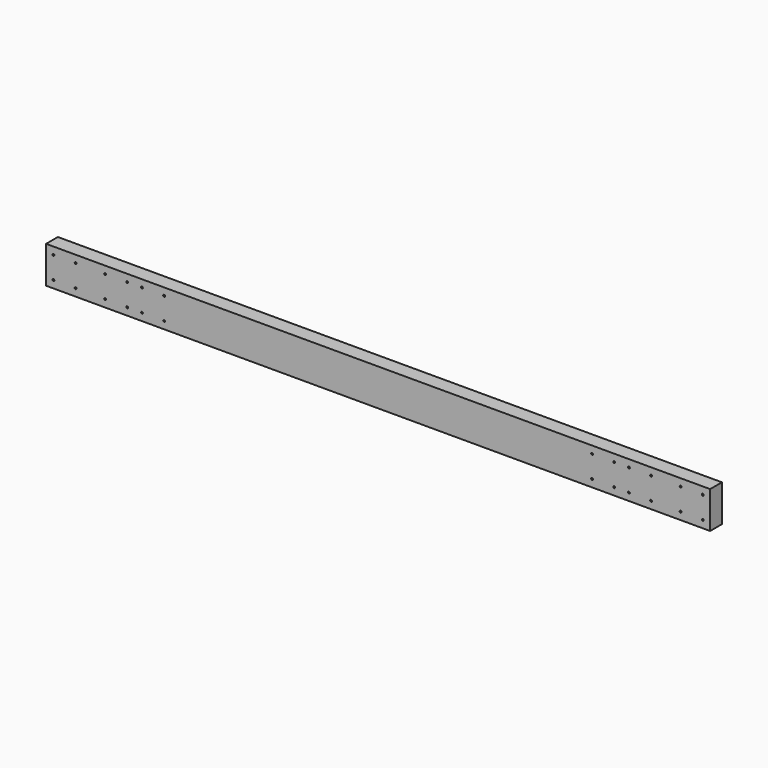
from build123d import *

# Parameters (mm, degrees)
F0_W     = 1800
F0_H     = 100
F1_DEPTH = 20
F3_D     = 5


with BuildPart() as f1:
    # F0 (on Front) → F1 (new body, symmetric)
    with BuildSketch(Plane.XZ):
        Rectangle(F0_W, F0_H)
    extrude(amount=F1_DEPTH, both=True)

    # F3 (through all)
    with Locations(Plane.XZ.offset(20)):
        with Locations((-880, 30), (-880, -30), (-820, 30), (-820, -30), (-740, 30), (-740, -30), (-680, 30), (-680, -30), (680, 30), (680, -30), (740, 30), (740, -30), (820, -30), (880, 30), (880, -30), (820, 30), (-640, 30), (-640, -30), (-580, -30), (-580, 30), (580, 30), (640, 30), (580, -30), (640, -30)):
            Hole(F3_D / 2)


solid = f1.part
